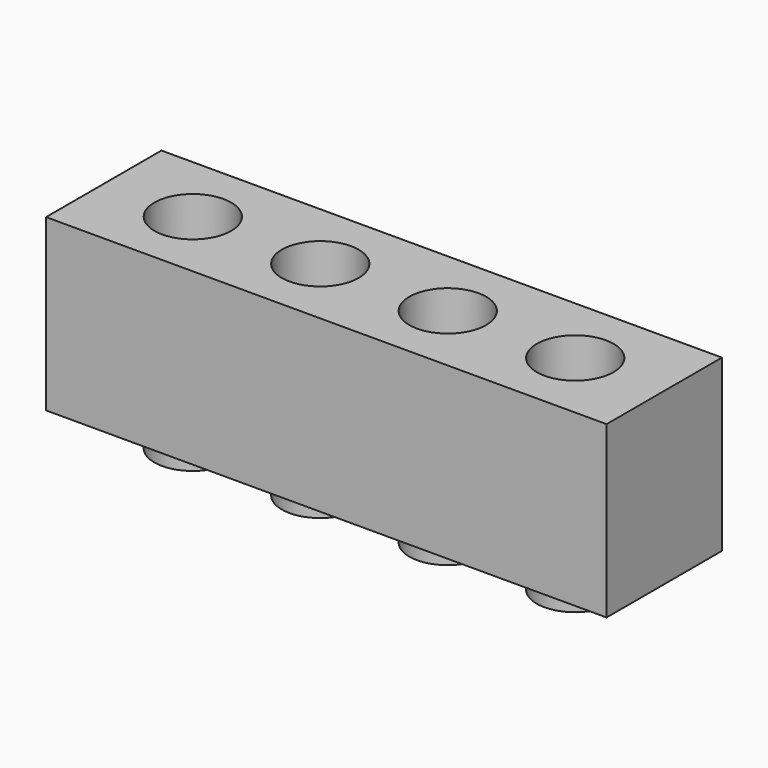
from build123d import *

# Parameters (mm, degrees)
F0_R     = 2.155
F1_DEPTH = 1.89
F0_W     = 31.45
F0_H     = 8.09
F2_DEPTH = 9.55


with BuildPart() as f1:
    # F0 (on Top) → F1 (new body)
    with BuildSketch(Plane.XY):
        with Locations((1.703811, 16.771867)):
            Circle(F0_R)
        with Locations((8.855811, 16.771867)):
            Circle(F0_R)
        with Locations((16.007811, 16.771867)):
            Circle(F0_R)
        with Locations((-5.448189, 16.771867)):
            Circle(F0_R)
    extrude(amount=-F1_DEPTH)


with BuildPart() as f2:
    # F0 (on Top) → F2 (new body)
    with BuildSketch(Plane.XY):
        with Locations((5.279811, 16.771867)):
            Rectangle(F0_W, F0_H)
        with Locations((-5.448189, 16.771867)):
            Circle(F0_R, mode=Mode.SUBTRACT)
        with Locations((1.703811, 16.771867)):
            Circle(F0_R, mode=Mode.SUBTRACT)
        with Locations((8.855811, 16.771867)):
            Circle(F0_R, mode=Mode.SUBTRACT)
        with Locations((16.007811, 16.771867)):
            Circle(F0_R, mode=Mode.SUBTRACT)
    extrude(amount=F2_DEPTH)


solid = Compound([f1.part, f2.part])
